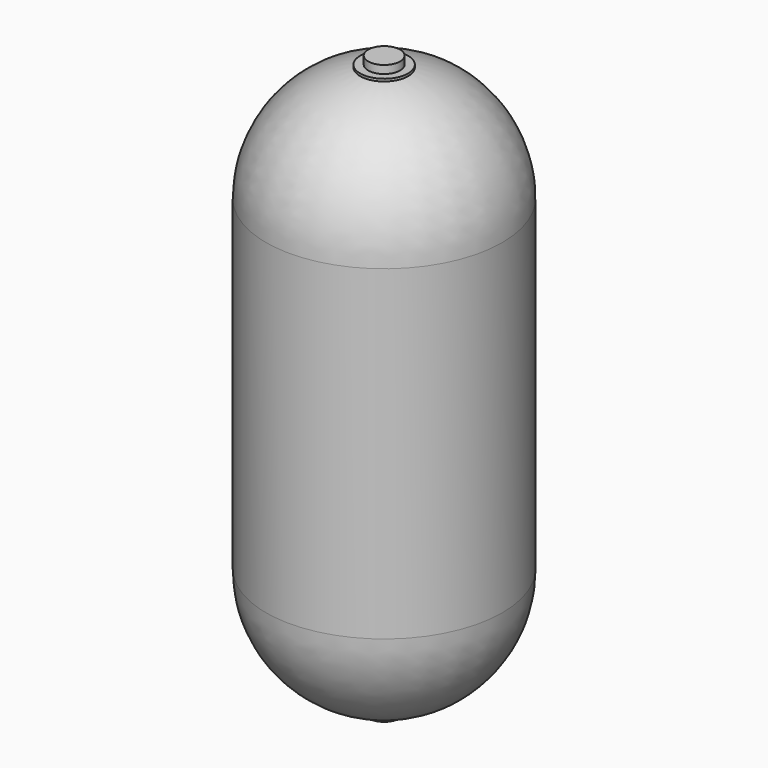
from build123d import *


with BuildPart() as f1:
    # F0 (on Front) → F1 (revolve)
    with BuildSketch(Plane.XZ):
        with BuildLine():
            Line((75, 0), (75, 7.68108))
            ThreePointArc((75, 7.68108), (286.923335, 136.387072), (370, 370))
            Line((370, 370), (370, 1390))
            ThreePointArc((370, 1390), (286.923335, 1623.612928), (75, 1752.31892))
            Line((75, 1752.31892), (75, 1760))
            Line((75, 1760), (50, 1760))
            Line((50, 1760), (50, 1785))
            Line((50, 1785), (0, 1785))
            Line((0, 1785), (0, 1760))
            Line((0, 1760), (0, 0))
            Line((0, 0), (0, -25))
            Line((0, -25), (50, -25))
            Line((50, -25), (50, 0))
            Line((50, 0), (75, 0))
        make_face()
    revolve(axis=Axis((0, 0, 880), (0, 0, -1)))


solid = f1.part
